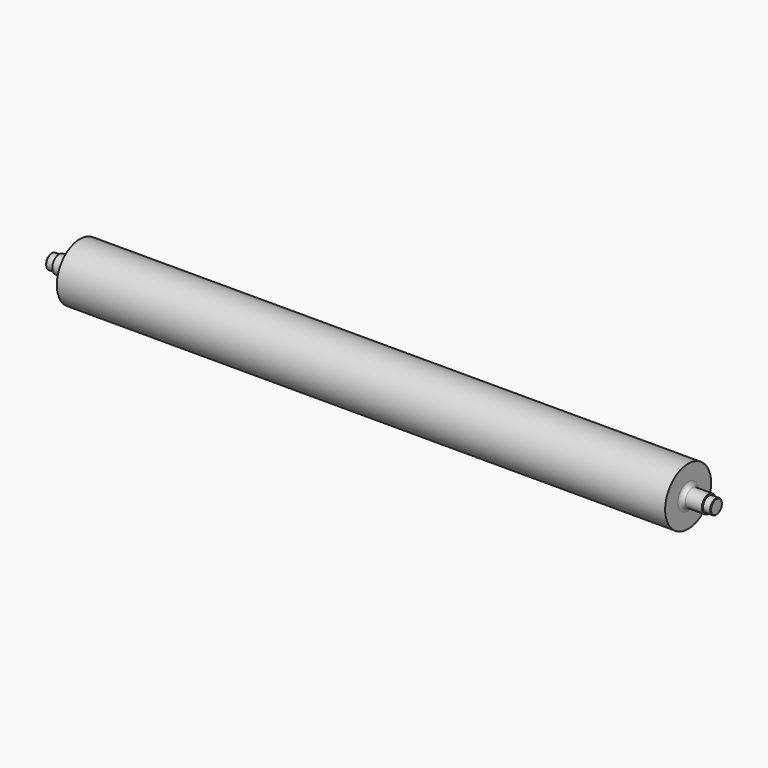
from build123d import *

# Parameters (mm, degrees)
F0_R     = 22.51329
F1_DEPTH = 1027.43
F2_R     = 27.0002
F3_DEPTH = 1003.554
F4_R     = 88.9
F5_DEPTH = 939.8
F6_R     = 12.7
F7_R     = 0.762
F8_R     = 0.762
F9_SIZE  = 1.524


with BuildPart() as f1:
    # F0 (on Right) → F1 (new body, symmetric)
    with BuildSketch(Plane.YZ):
        Circle(F0_R)
    extrude(amount=F1_DEPTH, both=True)

    # F2 (on Right) → F3 (join, symmetric)
    with BuildSketch(Plane.YZ):
        Circle(F2_R)
    extrude(amount=F3_DEPTH, both=True)

    # F4 (on Right) → F5 (join, symmetric)
    with BuildSketch(Plane.YZ):
        Circle(F4_R)
    extrude(amount=F5_DEPTH, both=True)

    # F6
    f6_edges = [f1.edges().sort_by_distance(p)[0] for p in [
        (939.8, -27.0002, 0),
        (-939.8, -27.0002, 0),
    ]]
    fillet(f6_edges, radius=F6_R)

    # F7
    f7_edges = [f1.edges().sort_by_distance(p)[0] for p in [
        (-1003.554, -22.51329, 0),
    ]]
    fillet(f7_edges, radius=F7_R)

    # F8
    f8_edges = [f1.edges().sort_by_distance(p)[0] for p in [
        (1003.554, -22.51329, 0),
    ]]
    fillet(f8_edges, radius=F8_R)

    # F9
    f9_edges = [f1.edges().sort_by_distance(p)[0] for p in [
        (1027.43, -22.51329, 0),
        (-1027.43, -22.51329, 0),
    ]]
    chamfer(f9_edges, length=F9_SIZE)


solid = f1.part
